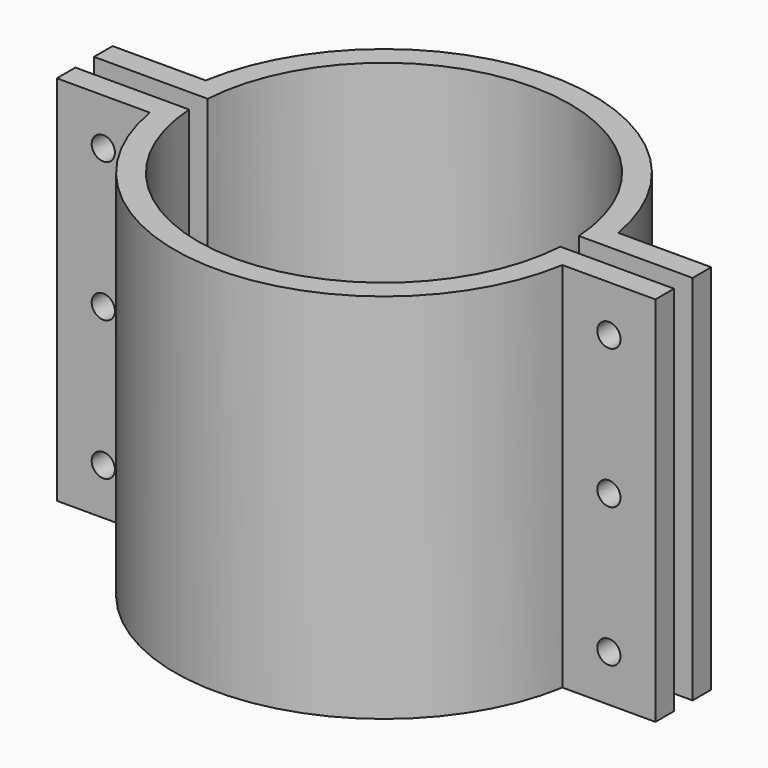
from build123d import *

# Parameters (mm, degrees)
F1_DEPTH = 50.8
F2_R     = 1.5875
F3_DEPTH = 33.3385


with BuildPart() as f1:
    # F0 (on Top) → F1 (new body)
    with BuildSketch(Plane.XY):
        with BuildLine():
            ThreePointArc((25.350342, -1.5875), (0, -25.4), (-25.350342, -1.5875))
            Line((-25.350342, -1.5875), (-40.87533, -1.5875))
            Line((-40.87533, -1.5875), (-40.87533, -4.7625))
            Line((-40.87533, -4.7625), (-28.17533, -4.7625))
            ThreePointArc((-28.17533, -4.7625), (0, -28.575), (28.17533, -4.7625))
            Line((28.17533, -4.7625), (40.87533, -4.7625))
            Line((40.87533, -4.7625), (40.87533, -1.5875))
            Line((40.87533, -1.5875), (25.350342, -1.5875))
        make_face()
        with BuildLine():
            Line((-40.87533, 4.7625), (-40.87533, 1.5875))
            Line((-40.87533, 1.5875), (-25.350342, 1.5875))
            ThreePointArc((-25.350342, 1.5875), (0, 25.4), (25.350342, 1.5875))
            Line((25.350342, 1.5875), (40.87533, 1.5875))
            Line((40.87533, 1.5875), (40.87533, 4.7625))
            Line((40.87533, 4.7625), (28.17533, 4.7625))
            ThreePointArc((28.17533, 4.7625), (0, 28.575), (-28.17533, 4.7625))
            Line((-28.17533, 4.7625), (-40.87533, 4.7625))
        make_face()
    extrude(amount=F1_DEPTH)

    # F2 (on face) → F3 (cut, through all)
    with BuildSketch(Plane.XZ.offset(4.7625)):
        with Locations((34.52533, 44.45)):
            Circle(F2_R)
        with Locations((34.52533, 25.4)):
            Circle(F2_R)
        with Locations((34.52533, 6.35)):
            Circle(F2_R)
        with Locations((-34.52533, 25.4)):
            Circle(F2_R)
        with Locations((-34.52533, 6.35)):
            Circle(F2_R)
        with Locations((-34.52533, 44.45)):
            Circle(F2_R)
    extrude(amount=-F3_DEPTH, mode=Mode.SUBTRACT)


solid = f1.part
